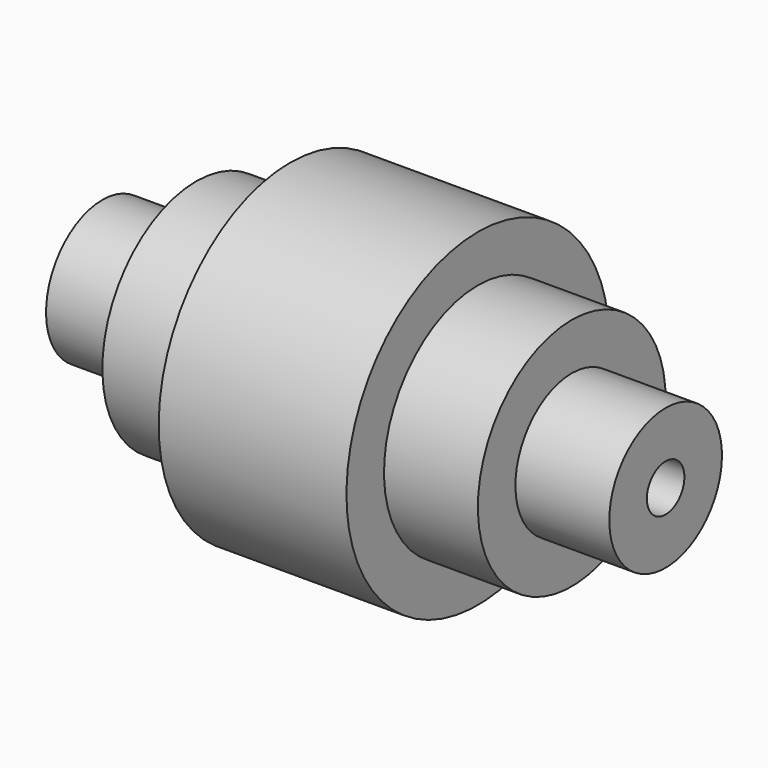
from build123d import *


with BuildPart() as f1:
    # F0 (on Front) → F1 (revolve)
    with BuildSketch(Plane.XZ):
        Polygon((20, 35), (0, 35), (0, 5), (13.305354, 5), (20, 5), (24.382994, 5), (40, 5), (60, 5), (60, 15), (40, 15), (40, 25), (20, 25), align=None)
    revolve(axis=Axis((22.793579, 0, 0), (1, 0, 0)))

    # F2: F1 across plane


with BuildPart() as f1_1:
    add(f1.part)
    add(f1.part.mirror(Plane.YZ))


solid = f1_1.part
